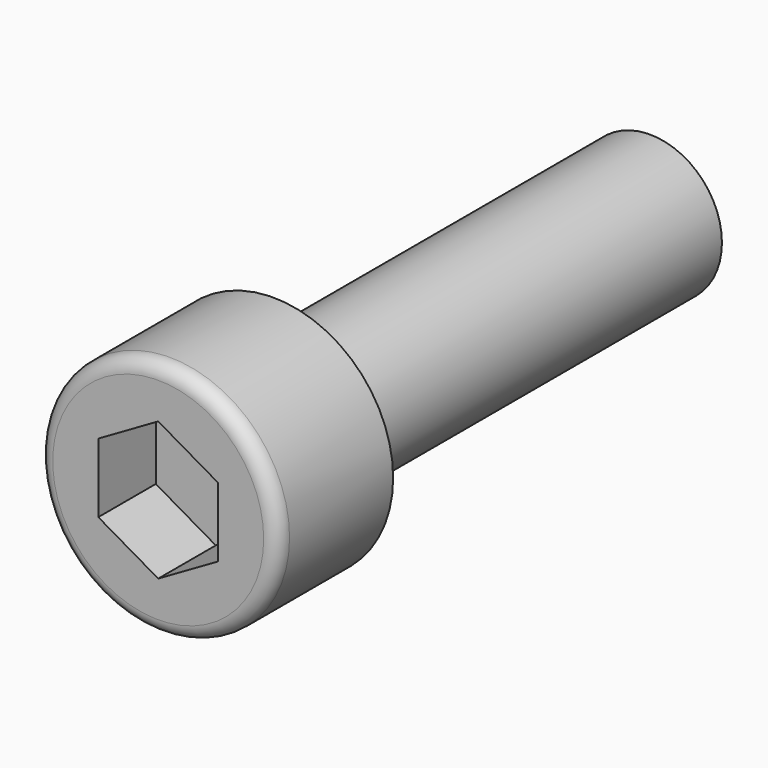
from build123d import *

# Parameters (mm, degrees)
POCKET_DEPTH = 3


with BuildPart() as part:
    # Sketch → Revolution (revolve)
    with BuildSketch(Plane.XY):
        with BuildLine():
            Line((3, 0), (5, 0))
            Line((5, 0), (5, -5.4))
            ThreePointArc((4.4, -6), (4.824264, -5.824264), (5, -5.4))
            Line((4.4, -6), (0, -6))
            Line((0, -6), (0, 20))
            Line((0, 20), (2.385, 20))
            Line((2.385, 20), (3, 19.64493))
            Line((3, 19.64493), (3, 0))
        make_face()
    revolve(axis=Axis((0, 0, 0), (0, 1, 0)))

    # Sketch001 → Pocket (cut)
    with BuildSketch(Plane.XZ.offset(6)):
        Polygon((-2.5, 1.443376), (-2.5, -1.443376), (0, -2.886751), (2.5, -1.443376), (2.5, 1.443376), (0, 2.886751), align=None)
    extrude(amount=-POCKET_DEPTH, mode=Mode.SUBTRACT)


solid = part.part
